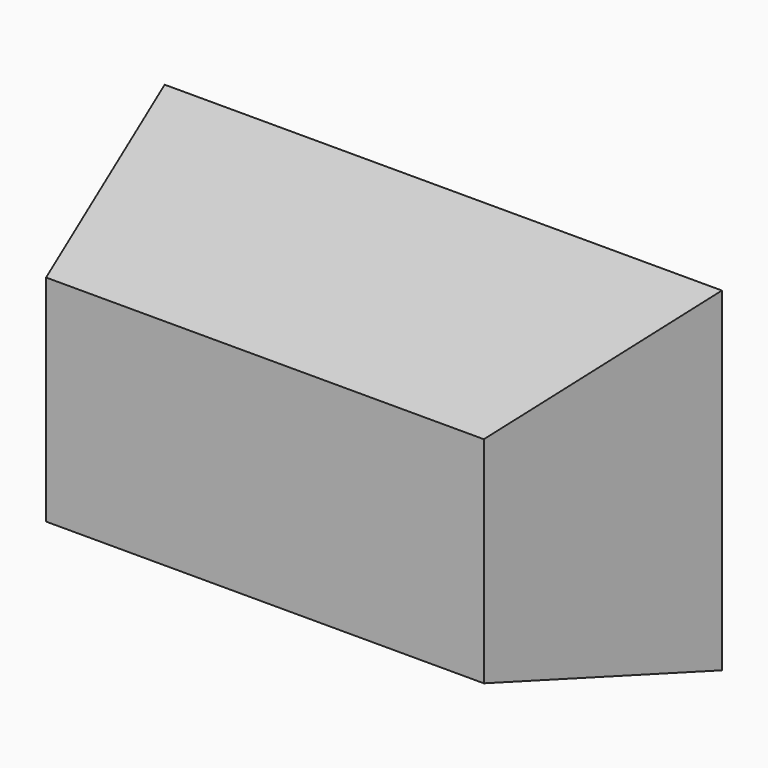
from build123d import *

# Parameters (mm, degrees)
F0_W     = 63.5
F0_H     = 38.1
F1_DEPTH = 25.4
F1_TAPER = 15


with BuildPart() as f1:
    # F0 (on Front) → F1 (new body)
    with BuildSketch(Plane.XZ):
        with Locations((-31.75, 0)):
            Rectangle(F0_W, F0_H)
    extrude(amount=F1_DEPTH, taper=F1_TAPER)


solid = f1.part
